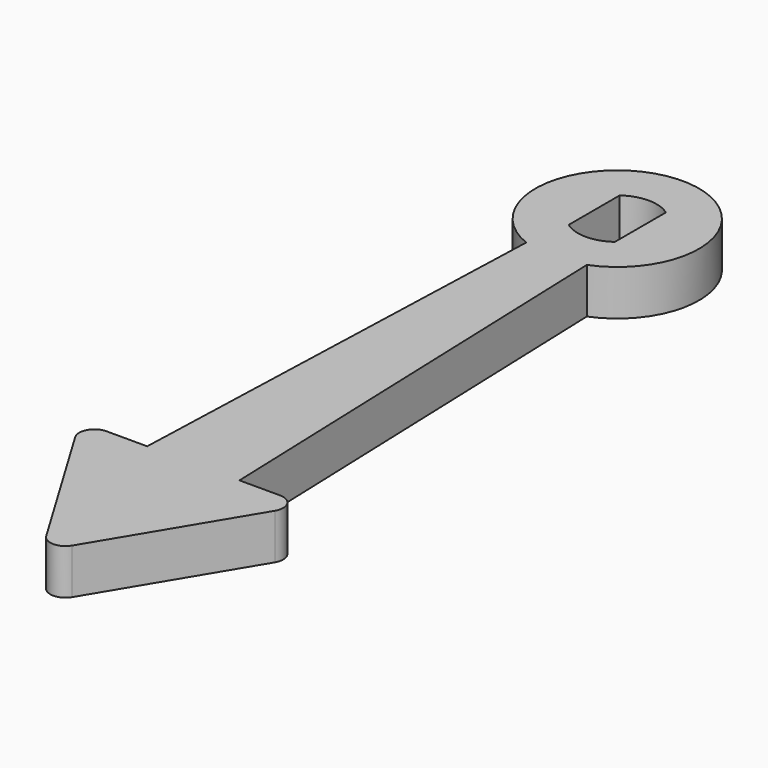
from build123d import *

# Parameters (mm, degrees)
F0_R     = 5.4
F1_DEPTH = 1.5
F3_DEPTH = 3
F4_R     = 1


with BuildPart() as f1:
    # F0 (on Top) → F1 (new body, symmetric)
    with BuildSketch(Plane.XY):
        Circle(F0_R)
        with BuildLine():
            ThreePointArc((1.525, 2.1057955741), (2.3157072354, 1.1821590418), (2.6, 0))
            ThreePointArc((2.6, 0), (2.3157072354, -1.1821590418), (1.525, -2.1057955741))
            ThreePointArc((1.525, -2.1057955741), (0, -2.6), (-1.525, -2.1057955741))
            ThreePointArc((-1.525, -2.1057955741), (-2.6, 0), (-1.525, 2.1057955741))
            ThreePointArc((-1.525, 2.1057955741), (0, 2.6), (1.525, 2.1057955741))
        make_face(mode=Mode.SUBTRACT)
        with BuildLine():
            ThreePointArc((1.525, -2.1057955741), (2.3157072354, -1.1821590418), (2.6, 0))
            ThreePointArc((2.6, 0), (2.3157072354, 1.1821590418), (1.525, 2.1057955741))
            Line((1.525, 2.1057955741), (1.525, -2.1057955741))
        make_face()
        with BuildLine():
            Line((-1.525, -2.1057955741), (-1.525, 2.1057955741))
            ThreePointArc((-1.525, 2.1057955741), (-2.6, 0), (-1.525, -2.1057955741))
        make_face()
    extrude(amount=F1_DEPTH, both=True)

    # F2 (on face) → F3 (join, through all)
    with BuildSketch(Plane(origin=(0, 0, -1.5), x_dir=(1, 0, 0), z_dir=(0, 0, -1))):
        Polygon((-2, 5.0159744816), (0, 5.0159744816), (0, 35), (-3.0470652436, 35), align=None)
        Polygon((0, 35), (0, 5.0159744816), (2, 5.0159744816), (3.0470652436, 35), align=None)
        Polygon((0, 47.5), (0, 35), (3.0470652436, 35), (7.5, 35), align=None)
        Polygon((-3.0470652436, 35), (0, 35), (0, 47.5), (-7.5, 35), align=None)
    extrude(amount=-F3_DEPTH)

    # F4
    f4_edges = [f1.edges().sort_by_distance(p)[0] for p in [
        (0, -47.5, 0),
        (-7.5, -35, 0),
        (7.5, -35, 0),
    ]]
    fillet(f4_edges, radius=F4_R)


solid = f1.part
